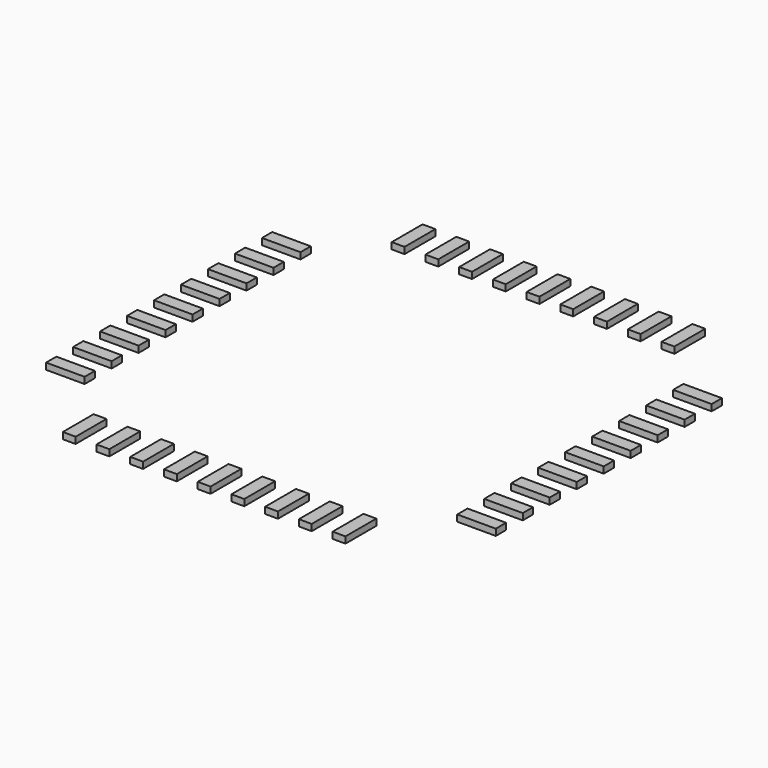
from build123d import *

# Parameters (mm, degrees)
BOX032_W             = 0.2
BOX032_H             = 0.6
BOX032_DEPTH         = 0.1
ARRAY012_X_COUNT     = 9
ARRAY012_X_PITCH     = 0.525
ARRAY012_Y_COUNT     = 2
ARRAY012_Y_PITCH     = 6.4
LINK_PLACEMENT_ANGLE = 90


with BuildPart() as array012:
    # Box032 → Box032 (new body)
    with BuildSketch(Plane(origin=(-2.2, 2.9, 0), x_dir=(1, 0, 0), z_dir=(0, 0, 1))):
        with Locations((0.1, 0.3)):
            Rectangle(BOX032_W, BOX032_H)
    extrude(amount=BOX032_DEPTH)

    # Array012 X: Array012 ×9


with BuildPart() as array012_1:
    add(array012.part)
    with Locations(*[(i * ARRAY012_X_PITCH, 0, 0) for i in range(1, ARRAY012_X_COUNT)]):
        add(array012.part)

    # Array012 Y: Array012 ×2


with BuildPart() as array012_2:
    add(array012_1.part)
    with Locations(*[(0, -i * ARRAY012_Y_PITCH, 0) for i in range(1, ARRAY012_Y_COUNT)]):
        add(array012_1.part)


with BuildPart() as array018:
    # Link base: copy of Array012
    add(array012_2.part)


with BuildPart() as array018_1:
    # Link placement: moved
    add(array018.part.rotate(Axis((0, 0, 0), (0, 0, 1)), LINK_PLACEMENT_ANGLE))


with BuildPart() as pins003:
    # Fusion022 base: copy of Array012
    add(array012_2.part)

    # Fusion022: union Array018
    add(array018_1.part)


solid = pins003.part
